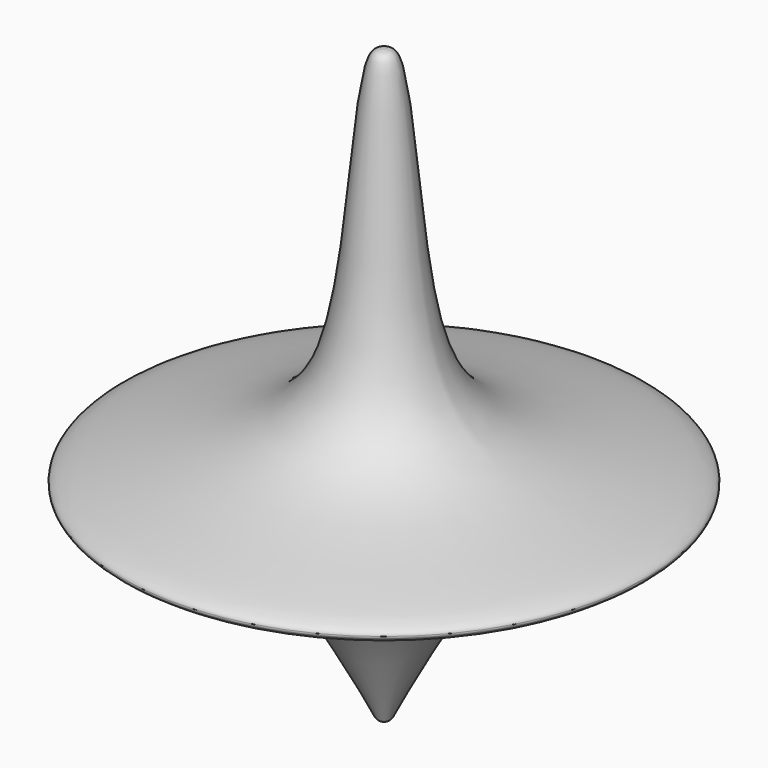
from build123d import *


with BuildPart() as f1:
    # F0 (on Front) → F1 (revolve)
    with BuildSketch(Plane.XZ):
        with BuildLine():
            add(Edge.make_bspline(
                [(0, 30.5150827944), (0.6119627796, 30.5563605036), (1.9849590591, 29.5123314753), (2.6408090025, 10.0473779209), (7.4889728126, 0.4586489383), (22.4887511962, -1.0852459575), (22.5114027659, -2.2255928876)],
                knots=[0, 0, 0, 0, 0.0539557495, 0.2405799459, 0.3907247811, 0.5466539499, 0.5466539499, 0.5466539499, 0.5466539499], degree=3))
            Line((0, 30.5150827944), (0, 21.8327008188))
            add(Edge.make_bspline(
                [(0, 21.8327008188), (0.7473302542, 18.7158730778), (1.7175817511, 10.1746828665), (2.7484715486, 3.1769040488), (6.5885658066, -0.2412438302), (11.0291970509, -1.1552352194), (10.9566068277, -2.2255928876)],
                knots=[0, 0, 0, 0, 0.2202872843, 0.3900350897, 0.5347258398, 0.6681660705, 0.6681660705, 0.6681660705, 0.6681660705], degree=3))
            Line((10.9566068277, -2.2255928876), (22.5114027659, -2.2255928876))
        make_face()
        with BuildLine():
            add(Edge.make_bspline(
                [(22.5114027659, -2.2255928876), (22.5316245272, -3.2436160845), (11.4592761502, -5.6220647788), (6.8599053498, -7.785384752), (0.8938010225, -19.325534194), (0.5062573062, -20.2800593064), (0, -20.2849172056)],
                knots=[0.5466539499, 0.5466539499, 0.5466539499, 0.5466539499, 0.685856772, 0.8013361937, 0.9515874973, 1, 1, 1, 1], degree=3))
            Line((22.5114027659, -2.2255928876), (10.9566068277, -2.2255928876))
            add(Edge.make_bspline(
                [(10.9566068277, -2.2255928876), (10.8412860124, -3.9260218641), (1.9572214563, -9.0839256189), (0.4973191648, -10.9556234901), (0, -11.5939518437)],
                knots=[0.6681660705, 0.6681660705, 0.6681660705, 0.6681660705, 0.8801565494, 1, 1, 1, 1], degree=3))
            Line((0, -11.5939518437), (0, -20.2849172056))
        make_face()
    revolve(axis=Axis((0, 0, 5.1150827944), (0, 0, -1)))


solid = f1.part
